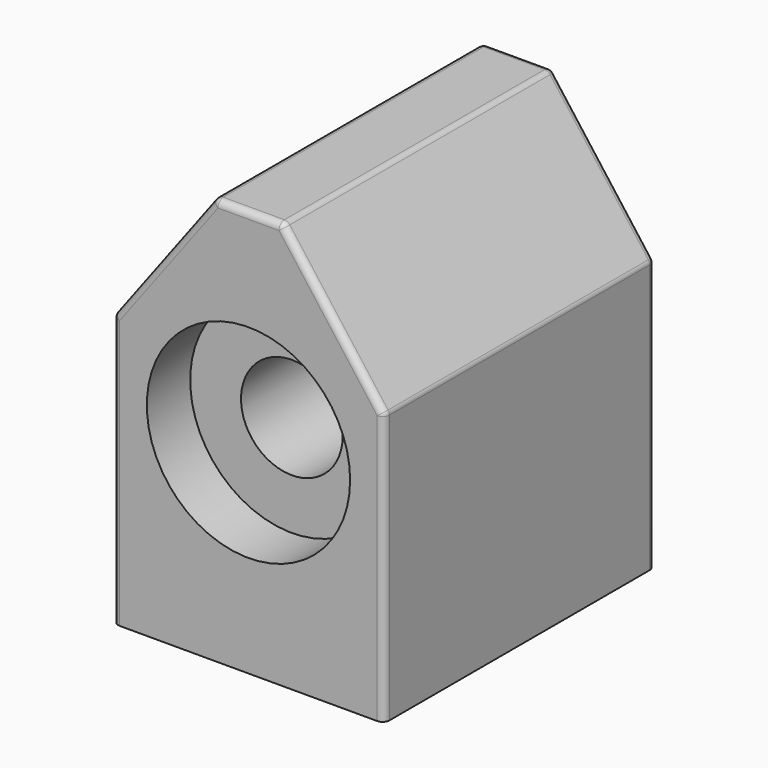
from build123d import *

# Parameters (mm, degrees)
F0_W     = 40
F0_H     = 60
F0_R     = 15
F0_R_2   = 7.5
F1_DEPTH = 50
F2_DEPTH = 8
F3_R     = 15
F4_DEPTH = 8
F5_SIZE2 = 20
F5_SIZE  = 15
F6_R     = 1


with BuildPart() as f1:
    # F0 (on Front) → F1 (new body)
    with BuildSketch(Plane.XZ):
        Rectangle(F0_W, F0_H)
        Circle(F0_R, mode=Mode.SUBTRACT)
        Circle(F0_R)
        Circle(F0_R_2, mode=Mode.SUBTRACT)
    extrude(amount=F1_DEPTH)

    # F0 (on Front) → F2 (cut)
    with BuildSketch(Plane.XZ):
        Circle(F0_R)
        Circle(F0_R_2, mode=Mode.SUBTRACT)
    extrude(amount=F2_DEPTH, mode=Mode.SUBTRACT)

    # F3 (on face) → F4 (cut)
    with BuildSketch(Plane.XZ.offset(50)):
        Circle(F3_R)
    extrude(amount=-F4_DEPTH, mode=Mode.SUBTRACT)

    # F5
    f5_edges = [f1.edges().sort_by_distance(p)[0] for p in [
        (20, -25, 30),
        (-20, -25, 30),
    ]]
    f5_side = f1.faces().sort_by_distance((0, -25, 30))[0]
    chamfer(f5_edges, length=F5_SIZE, length2=F5_SIZE2, reference=f5_side)

    # F6
    f6_edges = [f1.edges().sort_by_distance(p)[0] for p in [
        (-5, -25, 30),
        (5, -25, 30),
        (20, -25, 10),
        (-12.5, 0, 20),
        (0, 0, 30),
        (12.5, 0, 20),
        (12.5, -50, 20),
        (-12.5, -50, 20),
        (0, -50, 30),
        (-20, -50, -10),
        (20, -50, -10),
        (20, 0, -10),
        (-20, 0, -10),
        (-20, -25, 10),
    ]]
    fillet(f6_edges, radius=F6_R)


solid = f1.part
